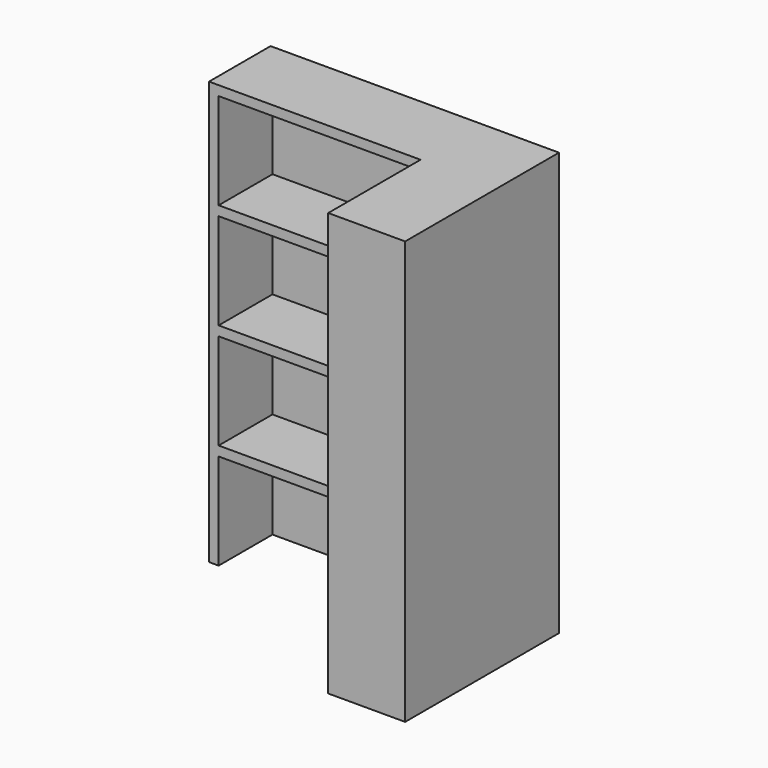
from build123d import *

# Parameters (mm, degrees)
BOX3529_W        = 1400
BOX3529_H        = 900
BOX3529_DEPTH    = 500
ARRAY281_Z_COUNT = 4
ARRAY281_Z_PITCH = 550
BOX3527_W        = 400
BOX3527_H        = 600
BOX3527_DEPTH    = 2200
BOX3528_W        = 1500
BOX3528_H        = 400
BOX3528_DEPTH    = 2200


with BuildPart() as array281:
    # Box3529 → Box3529 (new body)
    with BuildSketch(Plane(origin=(8850, 1350, 0), x_dir=(-1, 0, 0), z_dir=(0, 0, 1))):
        with Locations((700, 450)):
            Rectangle(BOX3529_W, BOX3529_H)
    extrude(amount=BOX3529_DEPTH)

    # Array281 Z: Array281 ×4


with BuildPart() as array281_1:
    add(array281.part)
    with Locations(*[(0, 0, i * ARRAY281_Z_PITCH) for i in range(1, ARRAY281_Z_COUNT)]):
        add(array281.part)


with BuildPart() as box3527:
    # Box3527 → Box3527 (new body)
    with BuildSketch(Plane(origin=(8900, 1000, 0), x_dir=(-1, 0, 0), z_dir=(0, 0, 1))):
        with Locations((200, 300)):
            Rectangle(BOX3527_W, BOX3527_H)
    extrude(amount=BOX3527_DEPTH)


with BuildPart() as cut003:
    # Box3528 → Box3528 (new body)
    with BuildSketch(Plane(origin=(8900, 1400, 0), x_dir=(-1, 0, 0), z_dir=(0, 0, 1))):
        with Locations((750, 200)):
            Rectangle(BOX3528_W, BOX3528_H)
    extrude(amount=BOX3528_DEPTH)

    # Fusion015: union Box3527
    add(box3527.part)

    # Cut003: cut Array281
    add(array281_1.part, mode=Mode.SUBTRACT)


solid = cut003.part
